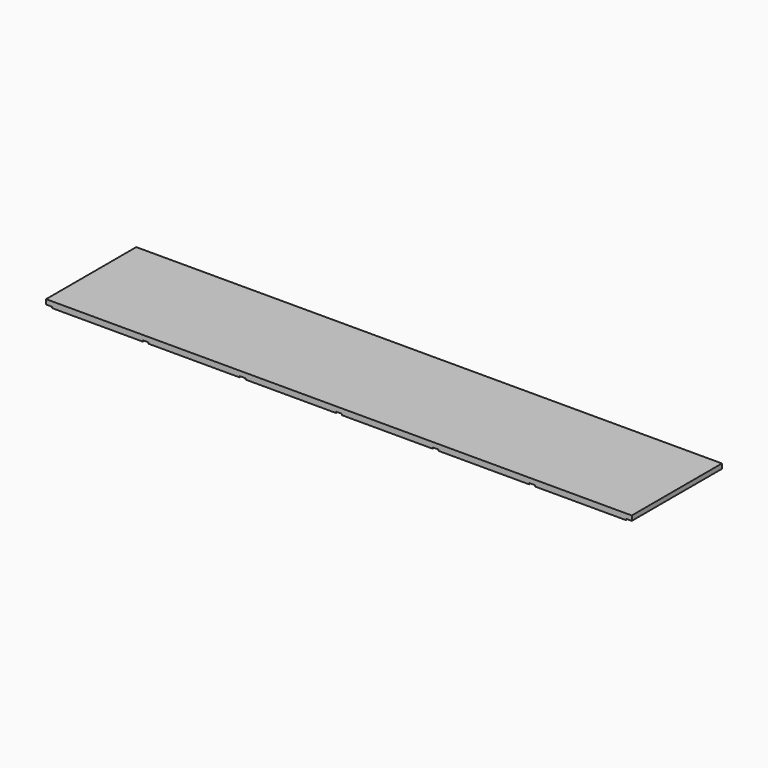
from build123d import *

# Parameters (mm, degrees)
F0_W     = 1558.925
F0_H     = 300
F1_DEPTH = 15.875
F2_W     = 15.875
F2_H     = 300
F3_DEPTH = 3.175


with BuildPart() as f1:
    # F0 (on Top) → F1 (new body)
    with BuildSketch(Plane.XY):
        with Locations((358.70695, 0.103155)):
            Rectangle(F0_W, F0_H)
    extrude(amount=F1_DEPTH)

    # F2 (on face) → F3 (cut)
    with BuildSketch(Plane(origin=(0, 0, 0), x_dir=(1, 0, 0), z_dir=(0, 0, -1))):
        with Locations((-412.81805, -0.103155)):
            Rectangle(F2_W, F2_H)
        with Locations((-155.64305, -0.103155)):
            Rectangle(F2_W, F2_H)
        with Locations((101.53195, -0.103155)):
            Rectangle(F2_W, F2_H)
        with Locations((358.70695, -0.103155)):
            Rectangle(F2_W, F2_H)
        Polygon((623.81945, 149.896845), (607.94445, 149.896845), (607.94445, -150.103155), (619.820178, -150.103155), (623.81945, -150.103155), align=None)
        with Locations((873.05695, -0.103155)):
            Rectangle(F2_W, F2_H)
        with Locations((1130.23195, -0.103155)):
            Rectangle(F2_W, F2_H)
    extrude(amount=-F3_DEPTH, mode=Mode.SUBTRACT)


solid = f1.part
